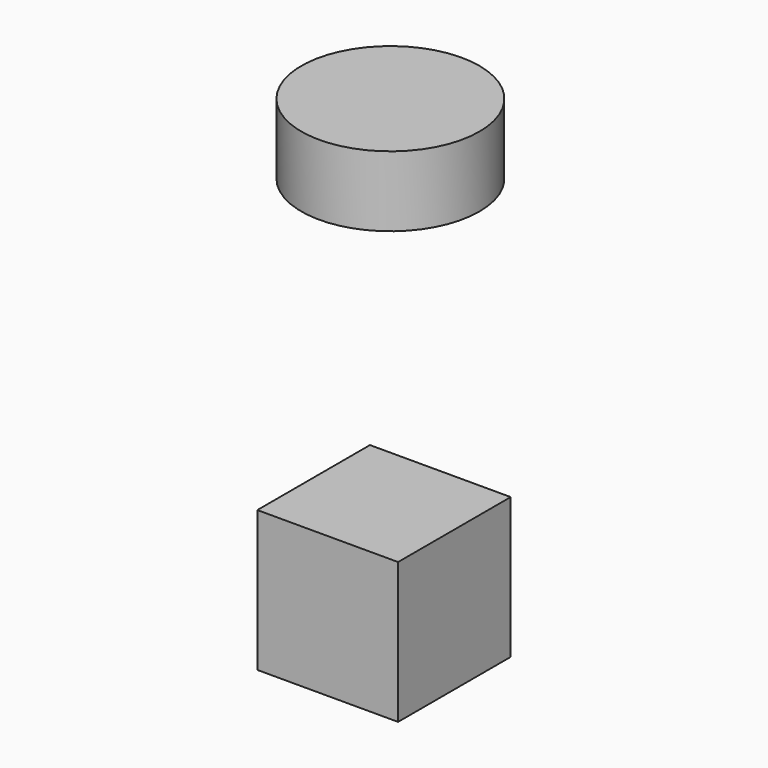
from build123d import *

# Parameters (mm, degrees)
F0_W     = 50
F0_H     = 50
F1_DEPTH = 50
F3_R     = 31.627873
F4_DEPTH = 25


with BuildPart() as f1:
    # F0 (on Front) → F1 (new body)
    with BuildSketch(Plane.XZ):
        with Locations((11.842105, -12.861841)):
            Rectangle(F0_W, F0_H)
    extrude(amount=F1_DEPTH)


with BuildPart() as f4:
    # F3 (on offset) → F4 (new body)
    with BuildSketch(Plane.XY.offset(100)):
        with Locations((-3.261681, -3.267993)):
            Circle(F3_R)
    extrude(amount=F4_DEPTH)


solid = Compound([f1.part, f4.part])
